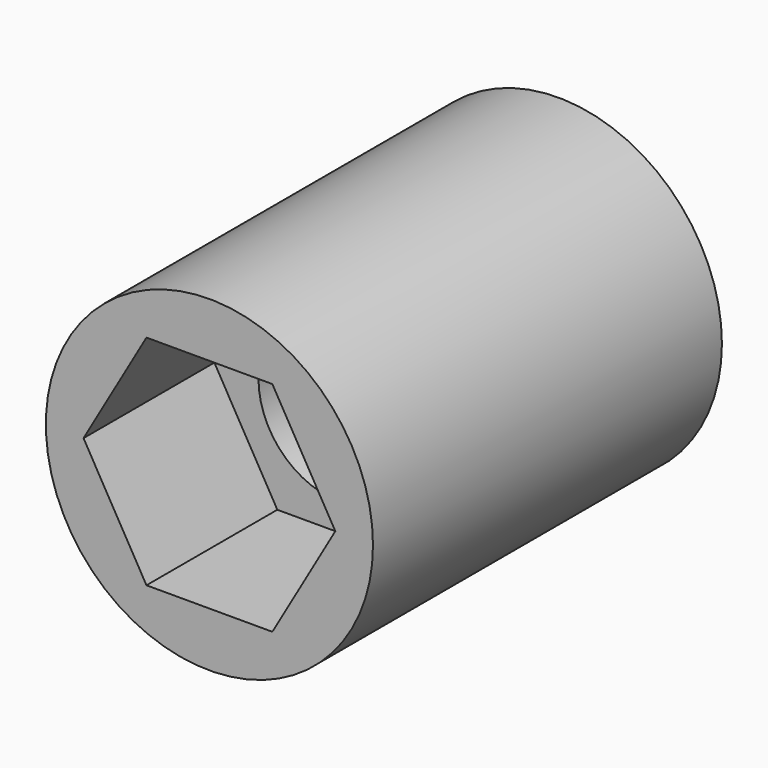
from build123d import *

# Parameters (mm, degrees)
F0_R     = 9.525
F1_DEPTH = 25.4
F3_DEPTH = 25.401
F4_DEPTH = 11.1125
F6_DEPTH = 9.525


with BuildPart() as f1:
    # F0 (on Front) → F1 (new body)
    with BuildSketch(Plane.XZ):
        Circle(F0_R)
    extrude(amount=-F1_DEPTH)

    # F2 (on face) → F3 (cut, through all)
    with BuildSketch(Plane(origin=(0, 25.4, 0), x_dir=(-1, 0, 0), z_dir=(0, 1, 0))):
        with BuildLine():
            ThreePointArc((-4.7625, 0), (-3.367596, -3.367596), (0, -4.7625))
            ThreePointArc((0, -4.7625), (3.367596, -3.367596), (4.7625, 0))
            ThreePointArc((4.7625, 0), (3.367596, 3.367596), (0, 4.7625))
            ThreePointArc((0, 4.7625), (-3.367596, 3.367596), (-4.7625, 0))
        make_face()
    extrude(amount=-F3_DEPTH, mode=Mode.SUBTRACT)

    # F2 (on face) → F4 (cut)
    with BuildSketch(Plane(origin=(0, 25.4, 0), x_dir=(-1, 0, 0), z_dir=(0, 1, 0))):
        with BuildLine():
            Line((-4.7625, 0), (-4.7625, -4.7625))
            Line((-4.7625, -4.7625), (0, -4.7625))
            ThreePointArc((0, -4.7625), (-3.367596, -3.367596), (-4.7625, 0))
        make_face()
        with BuildLine():
            ThreePointArc((4.7625, 0), (3.367596, -3.367596), (0, -4.7625))
            Line((0, -4.7625), (4.7625, -4.7625))
            Line((4.7625, -4.7625), (4.7625, 0))
        make_face()
        with BuildLine():
            Line((-4.7625, 4.7625), (-4.7625, 0))
            ThreePointArc((-4.7625, 0), (-3.367596, 3.367596), (0, 4.7625))
            Line((0, 4.7625), (-4.7625, 4.7625))
        make_face()
        with BuildLine():
            ThreePointArc((0, 4.7625), (3.367596, 3.367596), (4.7625, 0))
            Line((4.7625, 0), (4.7625, 4.7625))
            Line((4.7625, 4.7625), (0, 4.7625))
        make_face()
    extrude(amount=-F4_DEPTH, mode=Mode.SUBTRACT)

    # F5 (on face) → F6 (cut)
    with BuildSketch(Plane.XZ):
        Polygon((-7.332348, 0), (-3.666174, -6.35), (3.666174, -6.35), (7.332348, 0), (3.666174, 6.35), (-3.666174, 6.35), align=None)
    extrude(amount=-F6_DEPTH, mode=Mode.SUBTRACT)


solid = f1.part
